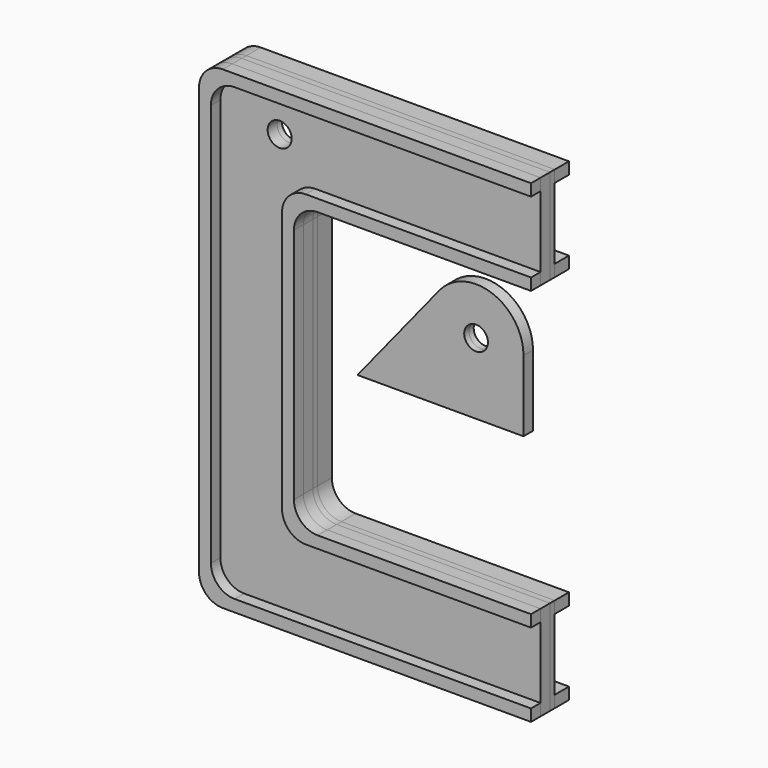
from build123d import *

# Parameters (mm, degrees)
F1_DEPTH = 10
F2_DEPTH = 10
F0_R     = 5.0635209728
F3_DEPTH = 5
F4_DEPTH = 2.5
F5_R     = 5
F6_DEPTH = 2.5
F7_DEPTH = 2.5


with BuildPart() as f1:
    # F0 (on Front) → F1 (new body)
    with BuildSketch(Plane.XZ):
        with BuildLine():
            Line((-25, 95), (100, 95))
            Line((100, 95), (100, 100))
            Line((100, 100), (-30, 100))
            ThreePointArc((-30, 100), (-37.0710678119, 97.0710678119), (-40, 90))
            Line((-40, 90), (-40, 0))
            Line((-40, 0), (-40, -90))
            ThreePointArc((-40, -90), (-37.0710678119, -97.0710678119), (-30, -100))
            Line((-30, -100), (100, -100))
            Line((100, -100), (100, -95))
            Line((100, -95), (-25, -95))
            ThreePointArc((-25, -95), (-32.0710678119, -92.0710678119), (-35, -85))
            Line((-35, -85), (-35, 85))
            ThreePointArc((-35, 85), (-32.0710678119, 92.0710678119), (-25, 95))
        make_face()
    extrude(amount=F1_DEPTH)


with BuildPart() as f1b:
    # F0 (on Front) → F1, piece 2 (new body)
    with BuildSketch(Plane.XZ):
        with BuildLine():
            Line((0, -50), (0, 0))
            Line((0, 0), (0, 50))
            ThreePointArc((0, 50), (2.9289321881, 57.0710678119), (10, 60))
            Line((10, 60), (100, 60))
            Line((100, 60), (100, 65))
            Line((100, 65), (5, 65))
            ThreePointArc((5, 65), (-2.0710678119, 62.0710678119), (-5, 55))
            Line((-5, 55), (-5, -55))
            ThreePointArc((-5, -55), (-2.0710678119, -62.0710678119), (5, -65))
            Line((5, -65), (100, -65))
            Line((100, -65), (100, -60))
            Line((100, -60), (10, -60))
            ThreePointArc((10, -60), (2.9289321881, -57.0710678119), (0, -50))
        make_face()
    extrude(amount=F1_DEPTH)


with BuildPart() as f2:
    # F2 (new): a face of the model
    f2_faces = [f1.part.faces().sort_by_distance(p)[0] for p in [
        (-37.4413111231, 0, 0),
    ]]
    extrude(f2_faces, amount=F2_DEPTH)


with BuildPart() as f2b:
    # F2#2 (new): a face of the model
    f2_2_faces = [f1b.part.faces().sort_by_distance(p)[0] for p in [
        (-1.6710774967, 0, 0),
    ]]
    extrude(f2_2_faces, amount=F2_DEPTH)


with BuildPart() as f3:
    # F0 (on Front) → F3 (new body)
    with BuildSketch(Plane.XZ):
        with BuildLine():
            Line((0, -50), (0, 0))
            Line((0, 0), (0, 50))
            ThreePointArc((0, 50), (2.9289321881, 57.0710678119), (10, 60))
            Line((10, 60), (100, 60))
            Line((100, 60), (100, 65))
            Line((100, 65), (5, 65))
            ThreePointArc((5, 65), (-2.0710678119, 62.0710678119), (-5, 55))
            Line((-5, 55), (-5, -55))
            ThreePointArc((-5, -55), (-2.0710678119, -62.0710678119), (5, -65))
            Line((5, -65), (100, -65))
            Line((100, -65), (100, -60))
            Line((100, -60), (10, -60))
            ThreePointArc((10, -60), (2.9289321881, -57.0710678119), (0, -50))
        make_face()
        with BuildLine():
            Line((5, 65), (100, 65))
            Line((100, 65), (100, 95))
            Line((100, 95), (-25, 95))
            ThreePointArc((-25, 95), (-32.0710678119, 92.0710678119), (-35, 85))
            Line((-35, 85), (-35, -85))
            ThreePointArc((-35, -85), (-32.0710678119, -92.0710678119), (-25, -95))
            Line((-25, -95), (100, -95))
            Line((100, -95), (100, -65))
            Line((100, -65), (5, -65))
            ThreePointArc((5, -65), (-2.0710678119, -62.0710678119), (-5, -55))
            Line((-5, -55), (-5, 55))
            ThreePointArc((-5, 55), (-2.0710678119, 62.0710678119), (5, 65))
        make_face()
        with Locations((-10, 80.3533643484)):
            Circle(F0_R, mode=Mode.SUBTRACT)
        with BuildLine():
            Line((-25, 95), (100, 95))
            Line((100, 95), (100, 100))
            Line((100, 100), (-30, 100))
            ThreePointArc((-30, 100), (-37.0710678119, 97.0710678119), (-40, 90))
            Line((-40, 90), (-40, 0))
            Line((-40, 0), (-40, -90))
            ThreePointArc((-40, -90), (-37.0710678119, -97.0710678119), (-30, -100))
            Line((-30, -100), (100, -100))
            Line((100, -100), (100, -95))
            Line((100, -95), (-25, -95))
            ThreePointArc((-25, -95), (-32.0710678119, -92.0710678119), (-35, -85))
            Line((-35, -85), (-35, 85))
            ThreePointArc((-35, 85), (-32.0710678119, 92.0710678119), (-25, 95))
        make_face()
    extrude(amount=F3_DEPTH)


with BuildPart() as f4:
    # F4 (new): a face of the model
    f4_faces = [f3.part.faces().sort_by_distance(p)[0] for p in [
        (-2.4413111231, 0, 0),
    ]]
    extrude(f4_faces, amount=F4_DEPTH)


with BuildPart() as f6:
    # F5 (on Front) → F6 (new body)
    with BuildSketch(Plane.XZ):
        with BuildLine():
            Line((20.8303779364, 0), (90.8303779364, 0))
            Line((90.8303779364, 0), (90.8303779364, 30))
            ThreePointArc((90.8303779364, 30), (77.5026750427, 48.8541892248), (55.2823328039, 42.5800752207))
            Line((55.2823328039, 42.5800752207), (20.8303779364, 0))
        make_face()
        with Locations((70.8303779364, 30)):
            Circle(F5_R, mode=Mode.SUBTRACT)
    extrude(amount=F6_DEPTH)

    # F7 (add): a face of the model
    f7_faces = [f6.faces().sort_by_distance(p)[0] for p in [
        (63.5665137167, 0, 20.2914976507),
    ]]
    extrude(f7_faces, amount=F7_DEPTH)


solid = Compound([f1.part, f1b.part, f2.part, f2b.part, f3.part, f4.part, f6.part])
